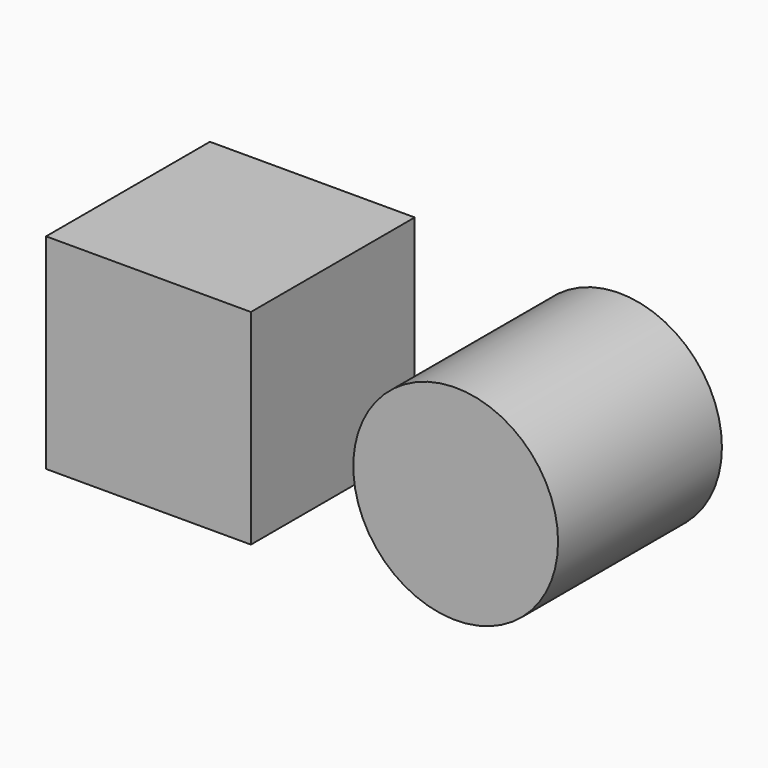
from build123d import *

# Parameters (mm, degrees)
F0_W     = 20
F0_H     = 20
F0_R     = 10
F1_DEPTH = 20


with BuildPart() as f1:
    # F0 (on Front) → F1 (new body)
    with BuildSketch(Plane.XZ):
        Rectangle(F0_W, F0_H)
        with Locations((30, 0)):
            Circle(F0_R)
    extrude(amount=F1_DEPTH)


solid = f1.part
